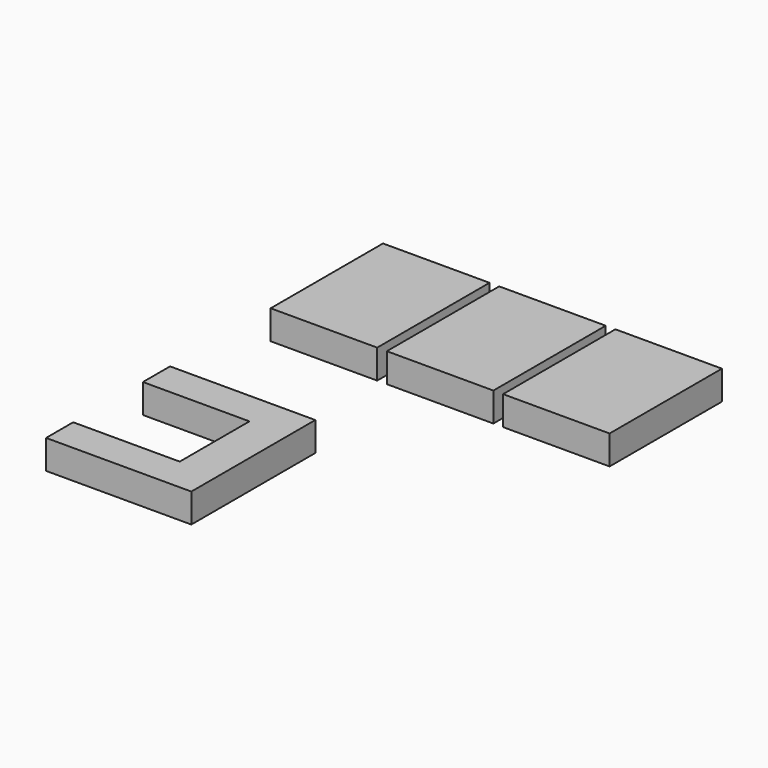
from build123d import *

# Parameters (mm, degrees)
F0_W     = 11
F0_H     = 14.5
F1_DEPTH = 3


with BuildPart() as f1:
    # F0 (on Top) → F1 (new body)
    with BuildSketch(Plane.XY):
        with Locations((5.5, 7.25)):
            Rectangle(F0_W, F0_H)
        with Locations((17.5, 7.25)):
            Rectangle(F0_W, F0_H)
        with Locations((29.5, 7.25)):
            Rectangle(F0_W, F0_H)
        Polygon((15, -12.990045), (0, -12.990045), (0, -16.490045), (11, -16.490045), (11, -25.490045), (0, -25.490045), (0, -28.990045), (15, -28.990045), align=None)
    extrude(amount=F1_DEPTH)


solid = f1.part
